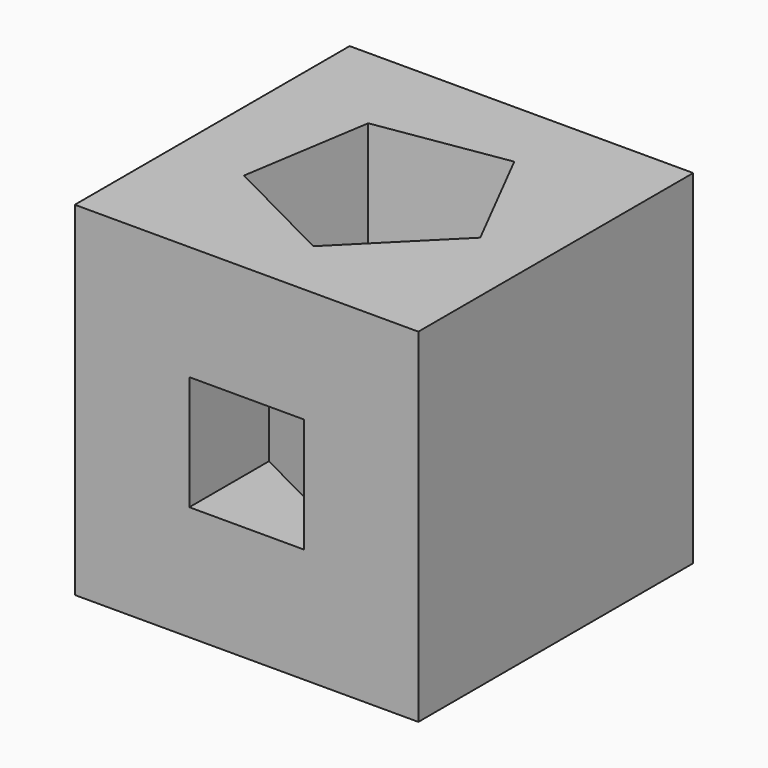
from build123d import *

# Parameters (mm, degrees)
F0_W     = 76.2
F0_H     = 76.2
F1_DEPTH = 76.2
F3_DEPTH = 76.201
F4_W     = 25.4
F4_H     = 25.4
F5_DEPTH = 12.7
F6_DEPTH = 25.4


with BuildPart() as f1:
    # F0 (on Top) → F1 (new body)
    with BuildSketch(Plane.XY):
        with Locations((38.1, 38.1)):
            Rectangle(F0_W, F0_H)
    extrude(amount=F1_DEPTH)

    # F2 (on face) → F3 (cut, through all)
    with BuildSketch(Plane.XY.offset(76.2)):
        Polygon((41.968848, 13.647208), (62.551527, 34.223165), (49.343027, 60.156776), (20.597046, 55.608672), (16.039553, 26.864179), align=None)
    extrude(amount=-F3_DEPTH, mode=Mode.SUBTRACT)

    # F4 (on face) → F5 (cut)
    with BuildSketch(Plane.XZ):
        with Locations((38.1, 38.1)):
            Rectangle(F4_W, F4_H)
    extrude(amount=-F5_DEPTH, mode=Mode.SUBTRACT)

    # F4 (on face) → F6 (cut)
    with BuildSketch(Plane.XZ):
        with Locations((38.1, 38.1)):
            Rectangle(F4_W, F4_H)
    extrude(amount=-F6_DEPTH, mode=Mode.SUBTRACT)


solid = f1.part
